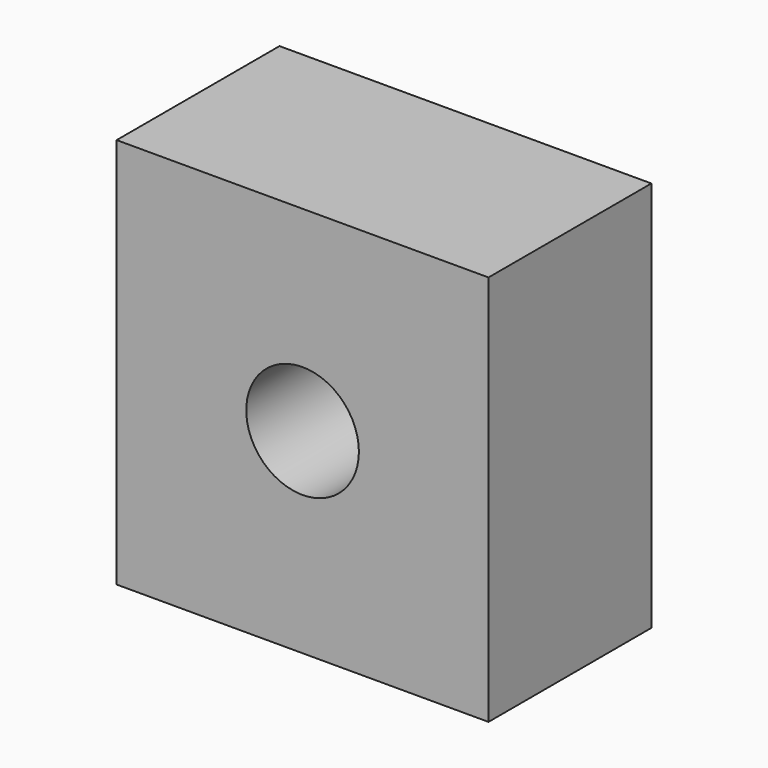
from build123d import *

# Parameters (mm, degrees)
F0_W     = 27.401832
F0_H     = 28.832448
F0_R     = 11.1
F0_R_2   = 4.15
F1_DEPTH = 15
F2_R     = 11.1
F2_R_2   = 4.15
F3_DEPTH = 7


with BuildPart() as f1:
    # F0 (on Front) → F1 (new body)
    with BuildSketch(Plane.XZ):
        Rectangle(F0_W, F0_H)
        Circle(F0_R, mode=Mode.SUBTRACT)
        Circle(F0_R)
        Circle(F0_R_2, mode=Mode.SUBTRACT)
    extrude(amount=F1_DEPTH)

    # F2 (on face) → F3 (cut)
    with BuildSketch(Plane(origin=(0, 0, 0), x_dir=(-1, 0, 0), z_dir=(0, 1, 0))):
        Circle(F2_R)
        Circle(F2_R_2, mode=Mode.SUBTRACT)
    extrude(amount=-F3_DEPTH, mode=Mode.SUBTRACT)


solid = f1.part
